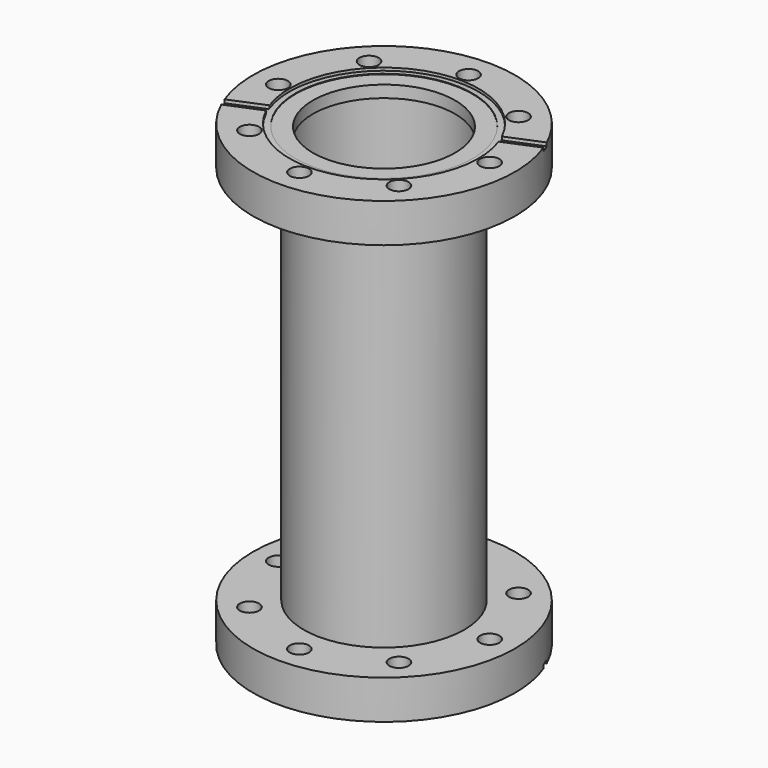
from build123d import *

# Parameters (mm, degrees)
CYLINDER032_R             = 41.25
CYLINDER032_DEPTH         = 1.5
BOX004_W                  = 16.9
BOX004_H                  = 4
BOX004_DEPTH              = 1.5
BOX005_W                  = 16.9
BOX005_H                  = 4
BOX005_DEPTH              = 1.5
FUSION011_PLACEMENT_ANGLE = 22.5
CYLINDER026_R             = 35
CYLINDER026_DEPTH         = 10.6
CYLINDER027_R             = 31
CYLINDER027_DEPTH         = 17
CYLINDER031_R             = 4.2
CYLINDER031_DEPTH         = 17
ARRAY005_COUNT            = 8
CYLINDER030_R             = 38.6
CYLINDER030_DEPTH         = 0.22
CYLINDER029_R             = 41.25
CYLINDER029_DEPTH         = 1.2
CYLINDER028_R             = 57.15
CYLINDER028_DEPTH         = 17
CUT030_PLACEMENT_ANGLE    = 180
COMPOUND_PLACEMENT_ANGLE  = 45
TUBE_R                    = 35
TUBE_R_2                  = 33
TUBE_DEPTH                = 187.2
CYLINDER025_R             = 41.25
CYLINDER025_DEPTH         = 1.5
BOX002_W                  = 16.9
BOX002_H                  = 4
BOX002_DEPTH              = 1.5
BOX003_W                  = 16.9
BOX003_H                  = 4
BOX003_DEPTH              = 1.5
FUSION008_PLACEMENT_ANGLE = 22.5
CYLINDER018_R             = 35
CYLINDER018_DEPTH         = 10.6
CYLINDER019_R             = 31
CYLINDER019_DEPTH         = 17
CYLINDER023_R             = 4.2
CYLINDER023_DEPTH         = 17
ARRAY004_COUNT            = 8
CYLINDER022_R             = 38.6
CYLINDER022_DEPTH         = 0.22
CYLINDER021_R             = 41.25
CYLINDER021_DEPTH         = 1.2
CYLINDER020_R             = 57.15
CYLINDER020_DEPTH         = 17


with BuildPart() as cylinder032:
    # Cylinder032 → Cylinder032 (new body)
    with BuildSketch(Plane.XY):
        Circle(CYLINDER032_R)
    extrude(amount=CYLINDER032_DEPTH)


with BuildPart() as cube004:
    # Box004 → Box004 (new body)
    with BuildSketch(Plane(origin=(40.75, -2, 0), x_dir=(1, 0, 0), z_dir=(0, 0, 1))):
        with Locations((8.45, 2)):
            Rectangle(BOX004_W, BOX004_H)
    extrude(amount=BOX004_DEPTH)


with BuildPart() as obj1:
    # Box005 → Box005 (new body)
    with BuildSketch(Plane(origin=(-57.65, -2, 0), x_dir=(1, 0, 0), z_dir=(0, 0, 1))):
        with Locations((8.45, 2)):
            Rectangle(BOX005_W, BOX005_H)
    extrude(amount=BOX005_DEPTH)

    # Fusion011: union Cube004
    add(cube004.part)


with BuildPart() as obj1_1:
    # Fusion011 placement: moved
    add(obj1.part.rotate(Axis((0, 0, 0), (0, 0, 1)), FUSION011_PLACEMENT_ANGLE))

    # Cut029: cut Cylinder032
    add(cylinder032.part, mode=Mode.SUBTRACT)


with BuildPart() as cylinder026:
    # Cylinder026 → Cylinder026 (new body)
    with BuildSketch(Plane.XY.offset(6.4)):
        Circle(CYLINDER026_R)
    extrude(amount=CYLINDER026_DEPTH)


with BuildPart() as fusion010:
    # Cylinder027 → Cylinder027 (new body)
    with BuildSketch(Plane.XY):
        Circle(CYLINDER027_R)
    extrude(amount=CYLINDER027_DEPTH)

    # Fusion010: union Cylinder026
    add(cylinder026.part)


with BuildPart() as boltholearray005:
    # Cylinder031 → Cylinder031 (new body)
    with BuildSketch(Plane(origin=(46.1, 0, 0), x_dir=(1, 0, 0), z_dir=(0, 0, 1))):
        Circle(CYLINDER031_R)
    extrude(amount=CYLINDER031_DEPTH)

    # Array005: BoltHoleArray005 ×8 about axis
    array005_axis = Axis((0, 0, 0), (0, 0, 1))


with BuildPart() as boltholearray005_1:
    add(boltholearray005.part)
    for i in range(1, ARRAY005_COUNT):
        add(boltholearray005.part.rotate(array005_axis, i * 360 / ARRAY005_COUNT))


with BuildPart() as cylinder030:
    # Cylinder030 → Cylinder030 (new body)
    with BuildSketch(Plane.XY):
        Circle(CYLINDER030_R)
    extrude(amount=CYLINDER030_DEPTH)


with BuildPart() as knifeedge005:
    # Cone005 → Cone005 (revolve)
    with BuildSketch(Plane.XZ):
        Polygon((0, 0), (38.6, 0), (41.25, 0.22), (0, 0.22), align=None)
    revolve(axis=Axis((0, 0, 0), (0, 0, 1)))

    # Cut026: cut Cylinder030
    add(cylinder030.part, mode=Mode.SUBTRACT)


with BuildPart() as knifeedge005_1:
    # Cut026 placement: moved
    add(knifeedge005.part.moved(Location((0, 0, 0.98))))


with BuildPart() as sealrecess005:
    # Cylinder029 → Cylinder029 (new body)
    with BuildSketch(Plane.XY):
        Circle(CYLINDER029_R)
    extrude(amount=CYLINDER029_DEPTH)


with BuildPart() as obj2:
    # Cylinder028 → Cylinder028 (new body)
    with BuildSketch(Plane.XY):
        Circle(CYLINDER028_R)
    extrude(amount=CYLINDER028_DEPTH)

    # Cut025: cut SealRecess005
    add(sealrecess005.part, mode=Mode.SUBTRACT)

    # Fusion009: union KnifeEdge005
    add(knifeedge005_1.part)

    # Cut027: cut BoltHoleArray005
    add(boltholearray005_1.part, mode=Mode.SUBTRACT)

    # Cut028: cut Fusion010
    add(fusion010.part, mode=Mode.SUBTRACT)

    # Cut030: cut obj1
    add(obj1_1.part, mode=Mode.SUBTRACT)


with BuildPart() as obj2_1:
    # Cut030 placement: moved
    add(obj2.part.moved(Location((0, 0, 200))).rotate(Axis((0, 0, 200), (1, 0, 0)), CUT030_PLACEMENT_ANGLE))


with BuildPart() as obj2_2:
    # Compound placement: moved
    add(obj2_1.part.rotate(Axis((0, 0, 0), (0, 0, 1)), COMPOUND_PLACEMENT_ANGLE))


with BuildPart() as tube:
    # Tube → Tube (new body)
    with BuildSketch(Plane.XY.offset(6.4)):
        Circle(TUBE_R)
        Circle(TUBE_R_2, mode=Mode.SUBTRACT)
    extrude(amount=TUBE_DEPTH)


with BuildPart() as cylinder025:
    # Cylinder025 → Cylinder025 (new body)
    with BuildSketch(Plane.XY):
        Circle(CYLINDER025_R)
    extrude(amount=CYLINDER025_DEPTH)


with BuildPart() as cube002:
    # Box002 → Box002 (new body)
    with BuildSketch(Plane(origin=(40.75, -2, 0), x_dir=(1, 0, 0), z_dir=(0, 0, 1))):
        with Locations((8.45, 2)):
            Rectangle(BOX002_W, BOX002_H)
    extrude(amount=BOX002_DEPTH)


with BuildPart() as obj3:
    # Box003 → Box003 (new body)
    with BuildSketch(Plane(origin=(-57.65, -2, 0), x_dir=(1, 0, 0), z_dir=(0, 0, 1))):
        with Locations((8.45, 2)):
            Rectangle(BOX003_W, BOX003_H)
    extrude(amount=BOX003_DEPTH)

    # Fusion008: union Cube002
    add(cube002.part)


with BuildPart() as obj3_1:
    # Fusion008 placement: moved
    add(obj3.part.rotate(Axis((0, 0, 0), (0, 0, 1)), FUSION008_PLACEMENT_ANGLE))

    # Cut021: cut Cylinder025
    add(cylinder025.part, mode=Mode.SUBTRACT)


with BuildPart() as cylinder018:
    # Cylinder018 → Cylinder018 (new body)
    with BuildSketch(Plane.XY.offset(6.4)):
        Circle(CYLINDER018_R)
    extrude(amount=CYLINDER018_DEPTH)


with BuildPart() as fusion006:
    # Cylinder019 → Cylinder019 (new body)
    with BuildSketch(Plane.XY):
        Circle(CYLINDER019_R)
    extrude(amount=CYLINDER019_DEPTH)

    # Fusion006: union Cylinder018
    add(cylinder018.part)


with BuildPart() as boltholearray004:
    # Cylinder023 → Cylinder023 (new body)
    with BuildSketch(Plane(origin=(46.1, 0, 0), x_dir=(1, 0, 0), z_dir=(0, 0, 1))):
        Circle(CYLINDER023_R)
    extrude(amount=CYLINDER023_DEPTH)

    # Array004: BoltHoleArray004 ×8 about axis
    array004_axis = Axis((0, 0, 0), (0, 0, 1))


with BuildPart() as boltholearray004_1:
    add(boltholearray004.part)
    for i in range(1, ARRAY004_COUNT):
        add(boltholearray004.part.rotate(array004_axis, i * 360 / ARRAY004_COUNT))


with BuildPart() as cylinder022:
    # Cylinder022 → Cylinder022 (new body)
    with BuildSketch(Plane.XY):
        Circle(CYLINDER022_R)
    extrude(amount=CYLINDER022_DEPTH)


with BuildPart() as knifeedge004:
    # Cone004 → Cone004 (revolve)
    with BuildSketch(Plane.XZ):
        Polygon((0, 0), (38.6, 0), (41.25, 0.22), (0, 0.22), align=None)
    revolve(axis=Axis((0, 0, 0), (0, 0, 1)))

    # Cut016: cut Cylinder022
    add(cylinder022.part, mode=Mode.SUBTRACT)


with BuildPart() as knifeedge004_1:
    # Cut016 placement: moved
    add(knifeedge004.part.moved(Location((0, 0, 0.98))))


with BuildPart() as sealrecess004:
    # Cylinder021 → Cylinder021 (new body)
    with BuildSketch(Plane.XY):
        Circle(CYLINDER021_R)
    extrude(amount=CYLINDER021_DEPTH)


with BuildPart() as obj4:
    # Cylinder020 → Cylinder020 (new body)
    with BuildSketch(Plane.XY):
        Circle(CYLINDER020_R)
    extrude(amount=CYLINDER020_DEPTH)

    # Cut015: cut SealRecess004
    add(sealrecess004.part, mode=Mode.SUBTRACT)

    # Fusion005: union KnifeEdge004
    add(knifeedge004_1.part)

    # Cut017: cut BoltHoleArray004
    add(boltholearray004_1.part, mode=Mode.SUBTRACT)

    # Cut018: cut Fusion006
    add(fusion006.part, mode=Mode.SUBTRACT)

    # Cut024: cut obj3
    add(obj3_1.part, mode=Mode.SUBTRACT)

    # Fusion: union obj2, Tube
    add(obj2_2.part)
    add(tube.part)


solid = obj4.part
